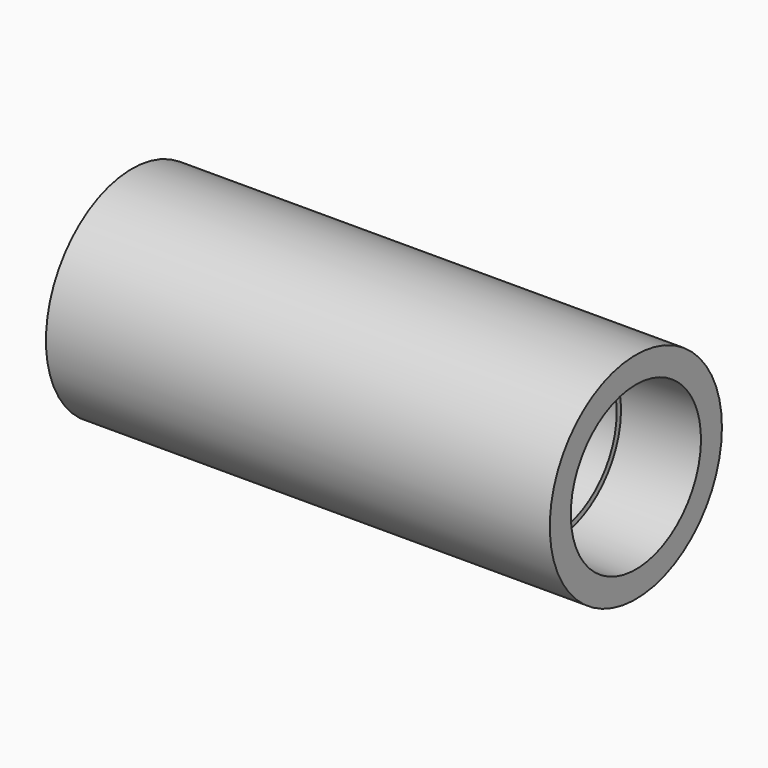
from build123d import *

# Parameters (mm, degrees)
F0_R     = 13.45
F0_R_2   = 9.5
F1_DEPTH = 63
F2_W     = 10
F2_H     = 0.8


with BuildPart() as f1:
    # F0 (on Right) → F1 (new body)
    with BuildSketch(Plane.YZ):
        Circle(F0_R)
        Circle(F0_R_2, mode=Mode.SUBTRACT)
    extrude(amount=-F1_DEPTH)

    # F2 (on Front) → F3 (revolve, cut)
    with BuildSketch(Plane.XZ):
        with Locations((-5, 9.775448)):
            Rectangle(F2_W, F2_H)
    revolve(axis=Axis((0, 0, 0), (1, 0, 0)), mode=Mode.SUBTRACT)


solid = f1.part
